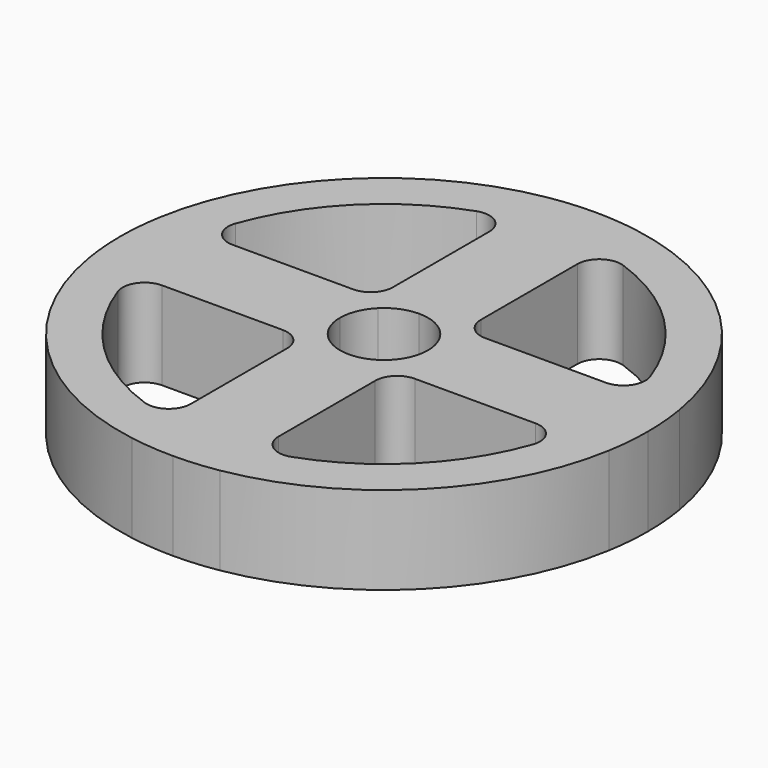
from build123d import *

# Parameters (mm, degrees)
F1_DEPTH = 12.7


with BuildPart() as f1:
    # F0 (on Top) → F1 (new body, symmetric)
    with BuildSketch(Plane.XY):
        with BuildLine():
            Line((12.7, 0), (76.2, 0))
            ThreePointArc((76.2, 0), (75.933086, 6.372321), (75.134213, 12.7))
            ThreePointArc((75.134213, 12.7), (53.881537, 53.881537), (12.7, 75.134213))
            ThreePointArc((12.7, 75.134213), (6.372321, 75.933086), (0, 76.2))
            Line((0, 76.2), (0, 12.7))
            ThreePointArc((0, 12.7), (4.86008, 11.73327), (8.980256, 8.980256))
            ThreePointArc((8.980256, 8.980256), (11.73327, 4.86008), (12.7, 0))
        make_face()
        with BuildLine():
            ThreePointArc((19.05, 12.7), (14.559872, 14.559872), (12.7, 19.05))
            Line((12.7, 19.05), (12.7, 53.881537))
            ThreePointArc((12.7, 53.881537), (15.383826, 59.06629), (21.166667, 59.868374))
            ThreePointArc((21.166667, 59.868374), (44.901281, 44.901281), (59.868374, 21.166667))
            ThreePointArc((59.868374, 21.166667), (59.06629, 15.383826), (53.881537, 12.7))
            Line((53.881537, 12.7), (19.05, 12.7))
        make_face(mode=Mode.SUBTRACT)
        with BuildLine():
            ThreePointArc((75.134213, -12.7), (75.933086, -6.372321), (76.2, 0))
            Line((76.2, 0), (12.7, 0))
            ThreePointArc((12.7, 0), (11.73327, -4.86008), (8.980256, -8.980256))
            ThreePointArc((8.980256, -8.980256), (4.86008, -11.73327), (0, -12.7))
            Line((0, -12.7), (0, -76.2))
            ThreePointArc((0, -76.2), (6.372321, -75.933086), (12.7, -75.134213))
            ThreePointArc((12.7, -75.134213), (53.881537, -53.881537), (75.134213, -12.7))
        make_face()
        with BuildLine():
            ThreePointArc((12.7, -19.05), (14.559872, -14.559872), (19.05, -12.7))
            Line((19.05, -12.7), (53.881537, -12.7))
            ThreePointArc((53.881537, -12.7), (59.06629, -15.383826), (59.868374, -21.166667))
            ThreePointArc((59.868374, -21.166667), (44.901281, -44.901281), (21.166667, -59.868374))
            ThreePointArc((21.166667, -59.868374), (15.383826, -59.06629), (12.7, -53.881537))
            Line((12.7, -53.881537), (12.7, -19.05))
        make_face(mode=Mode.SUBTRACT)
        with BuildLine():
            Line((0, 12.7), (0, 76.2))
            ThreePointArc((0, 76.2), (-6.372321, 75.933086), (-12.7, 75.134213))
            ThreePointArc((-12.7, 75.134213), (-53.881537, 53.881537), (-75.134213, 12.7))
            ThreePointArc((-75.134213, 12.7), (-75.933086, 6.372321), (-76.2, 0))
            Line((-76.2, 0), (-12.7, 0))
            ThreePointArc((-12.7, 0), (-11.73327, 4.86008), (-8.980256, 8.980256))
            ThreePointArc((-8.980256, 8.980256), (-4.86008, 11.73327), (0, 12.7))
        make_face()
        with BuildLine():
            Line((-12.7, 53.881537), (-12.7, 19.05))
            ThreePointArc((-12.7, 19.05), (-14.559872, 14.559872), (-19.05, 12.7))
            Line((-19.05, 12.7), (-53.881537, 12.7))
            ThreePointArc((-53.881537, 12.7), (-59.06629, 15.383826), (-59.868374, 21.166667))
            ThreePointArc((-59.868374, 21.166667), (-44.901281, 44.901281), (-21.166667, 59.868374))
            ThreePointArc((-21.166667, 59.868374), (-15.383826, 59.06629), (-12.7, 53.881537))
        make_face(mode=Mode.SUBTRACT)
        with BuildLine():
            ThreePointArc((-12.7, -75.134213), (-6.372321, -75.933086), (0, -76.2))
            Line((0, -76.2), (0, -12.7))
            ThreePointArc((0, -12.7), (-4.86008, -11.73327), (-8.980256, -8.980256))
            ThreePointArc((-8.980256, -8.980256), (-11.73327, -4.86008), (-12.7, 0))
            Line((-12.7, 0), (-76.2, 0))
            ThreePointArc((-76.2, 0), (-75.933086, -6.372321), (-75.134213, -12.7))
            ThreePointArc((-75.134213, -12.7), (-53.881537, -53.881537), (-12.7, -75.134213))
        make_face()
        with BuildLine():
            ThreePointArc((-21.166667, -59.868374), (-44.901281, -44.901281), (-59.868374, -21.166667))
            ThreePointArc((-59.868374, -21.166667), (-59.06629, -15.383826), (-53.881537, -12.7))
            Line((-53.881537, -12.7), (-19.05, -12.7))
            ThreePointArc((-19.05, -12.7), (-14.559872, -14.559872), (-12.7, -19.05))
            Line((-12.7, -19.05), (-12.7, -53.881537))
            ThreePointArc((-12.7, -53.881537), (-15.383826, -59.06629), (-21.166667, -59.868374))
        make_face(mode=Mode.SUBTRACT)
    extrude(amount=F1_DEPTH, both=True)


solid = f1.part
